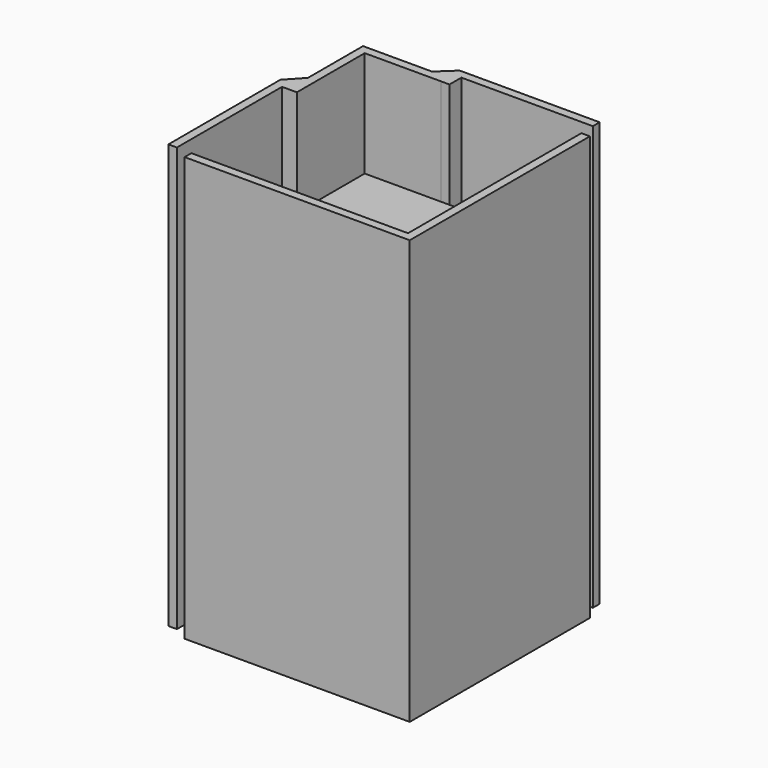
from build123d import *

# Parameters (mm, degrees)
F0_W     = 25.5
F0_H     = 25.5
F0_W_2   = 1.9999993742
F0_H_2   = 2
F0_W_3   = 2.0000008792
F0_H_3   = 1.9999993742
F1_DEPTH = 75
F2_DEPTH = 100


with BuildPart() as f1:
    # F0 (on Top) → F1 (new body)
    with BuildSketch(Plane.XY):
        with Locations((12.755583182, -12.733591482)):
            Rectangle(F0_W, F0_H)
        Polygon((-13.3629189804, 25.516408518), (-25.494416818, 25.516408518), (-25.494416818, 13.4455701336), (-25.494416818, 7.5299879536), (-25.494416818, 7.516408518), (-25.494416818, 5.516408518), (-25.494416818, 0.016408518), (0.005583182, 0.016408518), (0.005583182, 25.516408518), (-5.494416818, 25.516408518), (-7.4944176972, 25.516408518), (-7.5590480119, 25.516408518), align=None)
        with Locations((-26.4944165051, 6.516408518)):
            Rectangle(F0_W_2, F0_H_2)
        with Locations((-6.4944172576, 26.516408205)):
            Rectangle(F0_W_3, F0_H_3)
        Polygon((27.605583182, 25.516408518), (25.605583182, 25.516408518), (25.605583182, -25.583591482), (-25.494416818, -25.583591482), (-25.494416818, -27.583591482), (27.605583182, -27.583591482), align=None)
        Polygon((-27.4944161922, 7.516408518), (-27.4944161922, 7.5250499785), (-30.994416818, 7.516408518), align=None)
        Polygon((-7.4944176972, 31.0164093971), (-7.5355460904, 27.5164078921), (-7.4944176972, 27.5164078921), align=None)
        Polygon((-25.494416818, 13.4455701336), (-25.494416818, 25.516408518), (-13.3629189804, 25.516408518), (-11.2289195227, 27.5164078921), (-27.4944161922, 27.5164078921), (-27.4944161922, 11.289512039), align=None)
        Polygon((-27.4944161922, 7.516408518), (-30.994416818, 7.516408518), (-30.994416818, -25.483591482), (-28.994416818, -25.483591482), (-28.994416818, 5.516408518), (-27.4944161922, 5.516408518), align=None)
        Polygon((25.505583182, 31.0164093971), (-7.4944176972, 31.0164093971), (-7.4944176972, 27.5164078921), (-5.494416818, 27.5164078921), (-5.494416818, 29.016408518), (25.505583182, 29.016408518), align=None)
        with Locations((12.755583182, 12.766408518)):
            Rectangle(F0_W, F0_H)
        Polygon((25.605583182, 25.516408518), (25.505583182, 25.516408518), (25.505583182, 0.016408518), (25.505583182, -25.483591482), (0.005583182, -25.483591482), (-25.494416818, -25.483591482), (-25.494416818, -25.583591482), (25.605583182, -25.583591482), align=None)
        with Locations((-12.744416818, -12.733591482)):
            Rectangle(F0_W, F0_H)
        Polygon((-25.494416818, 7.516408518), (-25.494416818, 7.5299879536), (-27.4944161922, 7.5250499785), (-27.4944161922, 7.516408518), align=None)
        Polygon((-7.5355460904, 27.5164078921), (-7.5590480119, 25.516408518), (-7.4944176972, 25.516408518), (-7.4944176972, 27.5164078921), align=None)
    extrude(amount=F1_DEPTH)

    # F0 (on Top) → F2 (join)
    with BuildSketch(Plane.XY):
        Polygon((-25.494416818, 13.4455701336), (-25.494416818, 25.516408518), (-13.3629189804, 25.516408518), (-11.2289195227, 27.5164078921), (-27.4944161922, 27.5164078921), (-27.4944161922, 11.289512039), align=None)
        Polygon((-7.5355460904, 27.5164078921), (-7.5590480119, 25.516408518), (-7.4944176972, 25.516408518), (-7.4944176972, 27.5164078921), align=None)
        Polygon((-7.4944176972, 31.0164093971), (-7.5355460904, 27.5164078921), (-7.4944176972, 27.5164078921), align=None)
        Polygon((25.505583182, 31.0164093971), (-7.4944176972, 31.0164093971), (-7.4944176972, 27.5164078921), (-5.494416818, 27.5164078921), (-5.494416818, 29.016408518), (25.505583182, 29.016408518), align=None)
        with Locations((-6.4944172576, 26.516408205)):
            Rectangle(F0_W_3, F0_H_3)
        Polygon((-27.4944161922, 7.516408518), (-30.994416818, 7.516408518), (-30.994416818, -25.483591482), (-28.994416818, -25.483591482), (-28.994416818, 5.516408518), (-27.4944161922, 5.516408518), align=None)
        Polygon((-27.4944161922, 7.516408518), (-27.4944161922, 7.5250499785), (-30.994416818, 7.516408518), align=None)
        Polygon((-25.494416818, 7.516408518), (-25.494416818, 7.5299879536), (-27.4944161922, 7.5250499785), (-27.4944161922, 7.516408518), align=None)
        with Locations((-26.4944165051, 6.516408518)):
            Rectangle(F0_W_2, F0_H_2)
        Polygon((27.605583182, 25.516408518), (25.605583182, 25.516408518), (25.605583182, -25.583591482), (-25.494416818, -25.583591482), (-25.494416818, -27.583591482), (27.605583182, -27.583591482), align=None)
        Polygon((-25.494416818, 7.5299879536), (-25.494416818, 13.4455701336), (-27.4944161922, 11.289512039), (-27.4944161922, 7.5250499785), align=None)
        Polygon((-27.4944161922, 7.5250499785), (-27.4944161922, 11.289512039), (-30.994416818, 7.516408518), align=None)
        Polygon((-7.4944176972, 31.0164093971), (-11.2289195227, 27.5164078921), (-7.5355460904, 27.5164078921), align=None)
        Polygon((-11.2289195227, 27.5164078921), (-13.3629189804, 25.516408518), (-7.5590480119, 25.516408518), (-7.5355460904, 27.5164078921), align=None)
    extrude(amount=F2_DEPTH)


solid = f1.part
